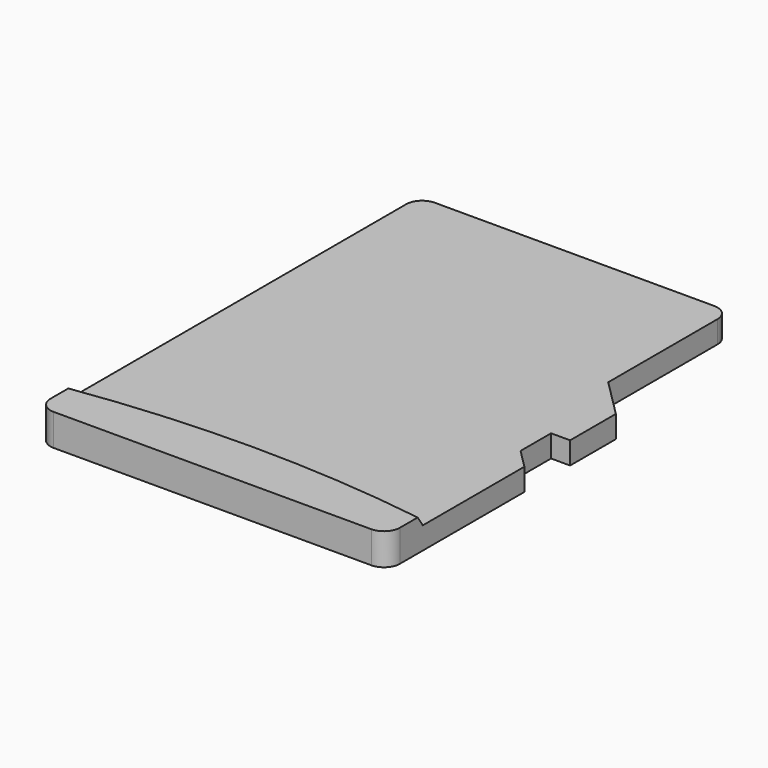
from build123d import *

# Parameters (mm, degrees)
BOX072_W         = 11
BOX072_H         = 15
BOX072_DEPTH     = 0.3
EXTRUDE017_DEPTH = 1


with BuildPart() as cone:
    # Cone → Cone (revolve)
    with BuildSketch(Plane(origin=(0, -36.4, 0.7), x_dir=(1, 0, 0), z_dir=(0, -1, 0))):
        Polygon((0, 0), (38.2, 0), (38, 0.3), (0, 0.3), align=None)
    revolve(axis=Axis((0, -36.4, 0.7), (0, 0, 1)))


with BuildPart() as cut018:
    # Box072 → Box072 (new body)
    with BuildSketch(Plane(origin=(-5.5, 0, 0.7), x_dir=(1, 0, 0), z_dir=(0, 0, 1))):
        with Locations((5.5, 7.5)):
            Rectangle(BOX072_W, BOX072_H)
    extrude(amount=BOX072_DEPTH)

    # Cut018: cut Cone
    add(cone.part, mode=Mode.SUBTRACT)


with BuildPart() as body:
    # Sketch018 → Extrude017 (new body)
    with BuildSketch(Plane.XY):
        with BuildLine():
            Line((-5.5, 0.5), (-5.5, 14.5))
            ThreePointArc((-5, 15), (-5.353553, 14.853553), (-5.5, 14.5))
            Line((-5, 15), (3.8, 15))
            ThreePointArc((4.3, 14.5), (4.153553, 14.853553), (3.8, 15))
            Line((4.3, 14.5), (4.3, 10.2))
            Line((4.3, 10.2), (5.5, 9))
            Line((5.5, 9), (5.5, 7.2))
            Line((5.5, 7.2), (4.9, 7.2))
            Line((4.9, 7.2), (4.9, 6))
            Line((4.9, 6), (5.5, 5.4))
            Line((5.5, 5.4), (5.5, 0.5))
            ThreePointArc((5, 0), (5.353553, 0.146447), (5.5, 0.5))
            Line((5, 0), (-5, 0))
            ThreePointArc((-5.5, 0.5), (-5.353553, 0.146447), (-5, 0))
        make_face()
    extrude(amount=EXTRUDE017_DEPTH)

    # Cut019: cut Cut018
    add(cut018.part, mode=Mode.SUBTRACT)


solid = body.part
